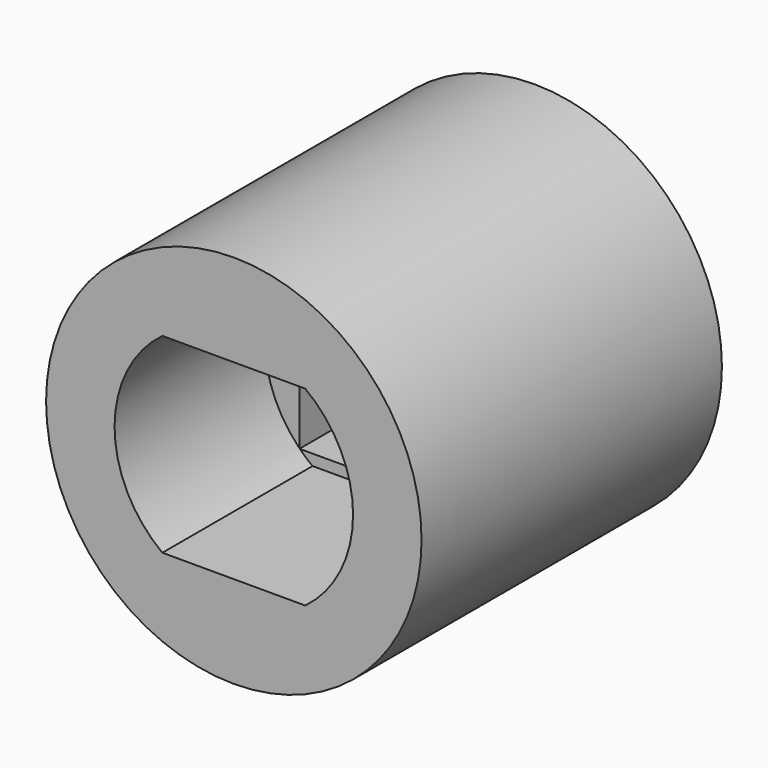
from build123d import *

# Parameters (mm, degrees)
F0_R     = 7.62
F0_W     = 6.858
F0_H     = 6.858
F1_DEPTH = 7.62
F2_R     = 7.62
F3_DEPTH = 7.62


with BuildPart() as f1:
    # F0 (on Front) → F1 (new body)
    with BuildSketch(Plane.XZ):
        Circle(F0_R)
        Rectangle(F0_W, F0_H, mode=Mode.SUBTRACT)
    extrude(amount=F1_DEPTH)

    # F2 (on face) → F3 (join)
    with BuildSketch(Plane.XZ.offset(7.62)):
        Circle(F2_R)
        with BuildLine():
            ThreePointArc((2.899996, 3.875), (4.327908, 2.166751), (4.84, 0))
            ThreePointArc((4.84, 0), (4.327908, -2.166751), (2.899996, -3.875))
            ThreePointArc((2.899996, -3.875), (0, -4.84), (-2.899996, -3.875))
            ThreePointArc((-2.899996, -3.875), (-4.84, 0), (-2.899996, 3.875))
            ThreePointArc((-2.899996, 3.875), (0, 4.84), (2.899996, 3.875))
        make_face(mode=Mode.SUBTRACT)
        with BuildLine():
            Line((-2.899996, 3.875), (2.899996, 3.875))
            ThreePointArc((2.899996, 3.875), (0, 4.84), (-2.899996, 3.875))
        make_face()
        with BuildLine():
            ThreePointArc((-2.899996, -3.875), (0, -4.84), (2.899996, -3.875))
            Line((2.899996, -3.875), (-2.899996, -3.875))
        make_face()
    extrude(amount=F3_DEPTH)


solid = f1.part
